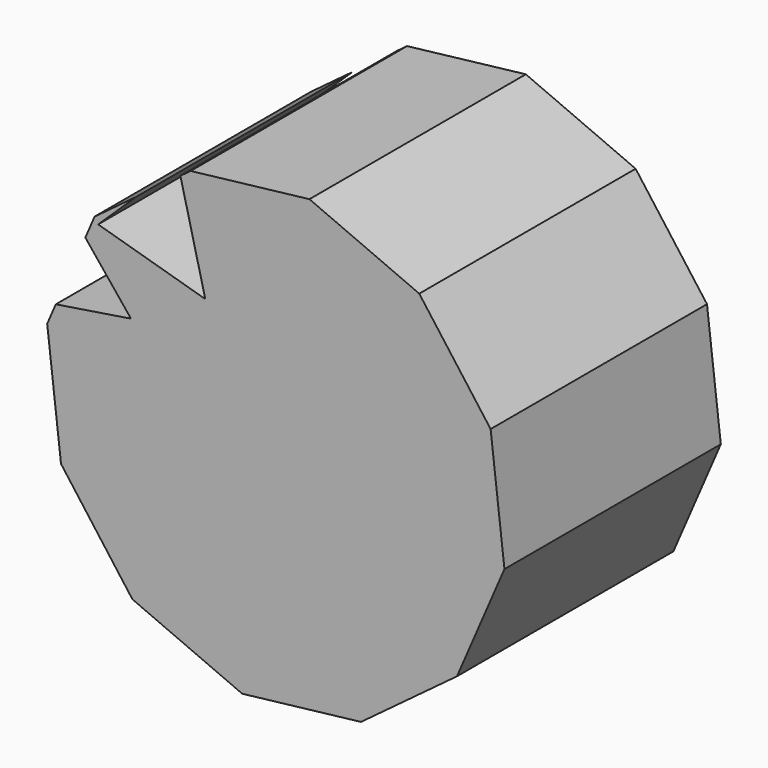
from build123d import *

# Parameters (mm, degrees)
F1_DEPTH = 25.4
F3_DEPTH = 25.4
F5_DEPTH = 25.4


with BuildPart() as f1:
    # F0 (on Front) → F1 (new body)
    with BuildSketch(Plane.XZ):
        Polygon((-2.625628, 15.450482), (-9.327945, 24.465393), (-19.639778, 28.921377), (-30.798078, 27.624455), (-39.81299, 20.922138), (-44.268973, 10.610306), (-42.972052, -0.547995), (-36.269735, -9.562907), (-25.957902, -14.01889), (-14.799602, -12.721969), (-5.78469, -6.019652), (-1.328707, 4.292181), align=None)
    extrude(amount=F1_DEPTH)

    # F2 (on face) → F3 (cut)
    with BuildSketch(Plane.XZ.offset(25.4)):
        Polygon((-42.977218, 21.73793), (-46.744515, 11.969563), (-36.401212, 13.591172), align=None)
    extrude(amount=-F3_DEPTH, mode=Mode.SUBTRACT)

    # F4 (on face) → F5 (cut)
    with BuildSketch(Plane.XZ.offset(25.4)):
        Polygon((-31.939655, 27.643172), (-39.482275, 20.382153), (-29.422739, 17.480562), align=None)
    extrude(amount=-F5_DEPTH, mode=Mode.SUBTRACT)


solid = f1.part
